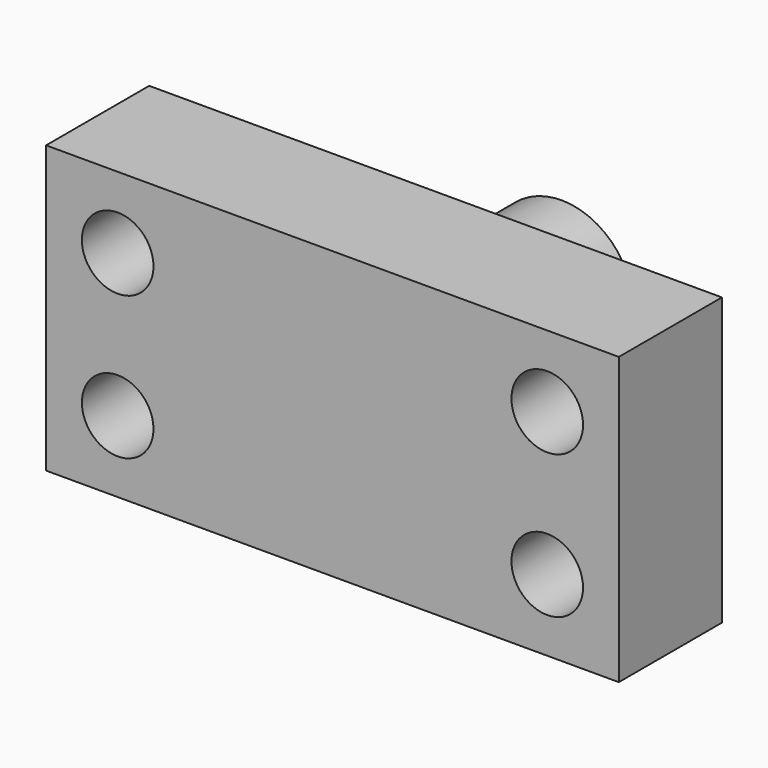
from build123d import *

# Parameters (mm, degrees)
F0_W     = 101.6
F0_H     = 50.8
F1_DEPTH = 25.4
F2_R     = 6.35
F3_DEPTH = 25.401
F4_W     = 12.7
F4_H     = 25.4
F6_W     = 10.16
F6_H     = 6.35
F8_R     = 1.27
F9_SIZE  = 2.54


with BuildPart() as f1:
    # F0 (on Front) → F1 (new body)
    with BuildSketch(Plane.XZ):
        Rectangle(F0_W, F0_H)
    extrude(amount=F1_DEPTH)

    # F2 (on face) → F3 (cut, through all)
    with BuildSketch(Plane.XZ.offset(25.4)):
        with Locations((-38.1, 12.7)):
            Circle(F2_R)
        with Locations((-38.1, -12.7)):
            Circle(F2_R)
        with Locations((38.1, -12.7)):
            Circle(F2_R)
        with Locations((38.1, 12.7)):
            Circle(F2_R)
    extrude(amount=-F3_DEPTH, mode=Mode.SUBTRACT)

    # F4 (on Top) → F5 (revolve)
    with BuildSketch(Plane.XY):
        with Locations((-6.35, 12.7)):
            Rectangle(F4_W, F4_H)
    revolve(axis=Axis((0, 12.7, 0), (0, 1, 0)))

    # F6 (on Top) → F7 (revolve, cut)
    with BuildSketch(Plane.XY):
        with Locations((-13.302147, 13.335)):
            Rectangle(F6_W, F6_H)
    revolve(axis=Axis((0, 12.941601, 0), (0, 1, 0)), mode=Mode.SUBTRACT)

    # F8
    f8_edges = [f1.edges().sort_by_distance(p)[0] for p in [
        (12.7, 0, 0),
        (8.222147, 10.16, 0),
        (8.222147, 16.51, 0),
    ]]
    fillet(f8_edges, radius=F8_R)

    # F9
    f9_edges = [f1.edges().sort_by_distance(p)[0] for p in [
        (0, 0, -25.4),
        (-50.8, 0, 0),
        (0, 0, 25.4),
        (50.8, 0, 0),
    ]]
    chamfer(f9_edges, length=F9_SIZE)


solid = f1.part
